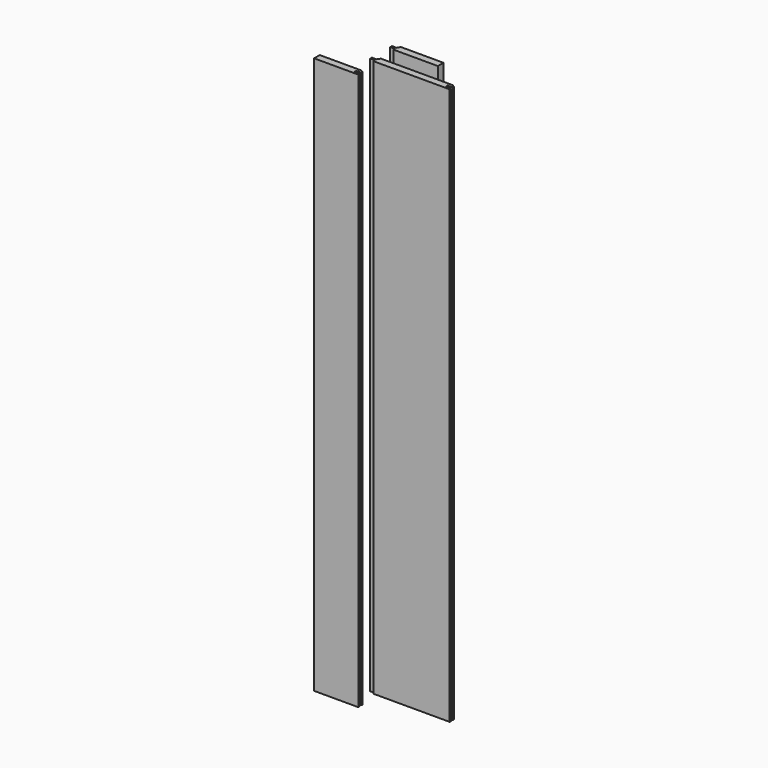
from build123d import *

# Parameters (mm, degrees)
F1_DEPTH = 630
F2_SIZE2 = 2.3835071852
F2_SIZE  = 2
F3_SIZE2 = 2.8562960135
F3_SIZE  = 2
F4_DEPTH = 630
F5_DEPTH = 630
F6_SIZE2 = 2.3835071852
F6_SIZE  = 2
F7_SIZE2 = 2.8562960135
F7_SIZE  = 2


with BuildPart() as f1:
    # F0 (on Top) → F1 (new body)
    with BuildSketch(Plane.XY):
        Polygon((45.75, 0.6), (45.75, 4), (-40.25, 4), (-40.25, 0.5), (-45.75, 0.5), (-45.75, -2), (-40.25, -2), (-40.25, -4), (45.75, -4), (45.75, -2), (39.75, -2), (39.75, 0.6), align=None)
    extrude(amount=-F1_DEPTH)

    # F2
    f2_edges = [f1.edges().sort_by_distance(p)[0] for p in [
        (-40.25, 4, -315),
    ]]
    f2_side = f1.faces().sort_by_distance((2.75, 4, -315))[0]
    chamfer(f2_edges, length=F2_SIZE, length2=F2_SIZE2, reference=f2_side)

    # F3
    f3_edges = [f1.edges().sort_by_distance(p)[0] for p in [
        (45.75, 4, -315),
    ]]
    f3_side = f1.faces().sort_by_distance((45.75, 2.3, -315))[0]
    chamfer(f3_edges, length=F3_SIZE, length2=F3_SIZE2, reference=f3_side)


with BuildPart() as f4:
    # F0 (on Top) → F4 (new body)
    with BuildSketch(Plane.XY):
        Polygon((9.7738518756, 28.9047427452), (9.7738518756, 32.3047427452), (-40.2261481244, 32.3047427452), (-40.2261481244, 28.8047427452), (-45.7261481244, 28.8047427452), (-45.7261481244, 26.3047427452), (-40.2261481244, 26.3047427452), (-40.2261481244, 24.3047427452), (9.7738518756, 24.3047427452), (9.7738518756, 26.3047427452), align=None)
    extrude(amount=-F4_DEPTH)

    # F6
    f6_edges = [f4.edges().sort_by_distance(p)[0] for p in [
        (-40.226148, 32.304743, -315),
    ]]
    f6_side = f4.faces().sort_by_distance((-15.226148, 32.304743, -315))[0]
    chamfer(f6_edges, length=F6_SIZE, length2=F6_SIZE2, reference=f6_side)


with BuildPart() as f5:
    # F0 (on Top) → F5 (new body)
    with BuildSketch(Plane.XY):
        Polygon((-34.8161143508, -27.8352580988), (-34.8161143508, -24.4352580988), (-79.3161143508, -24.4352580988), (-84.8161143508, -24.4352580988), (-84.8161143508, -30.4352580988), (-84.8161143508, -32.4352580988), (-45.8161143508, -32.4352580988), (-40.3161143508, -32.4352580988), (-34.8161143508, -32.4352580988), (-34.8161143508, -30.4352580988), (-40.8161143508, -30.4352580988), (-40.8161143508, -27.8352580988), align=None)
    extrude(amount=-F5_DEPTH)

    # F7
    f7_edges = [f5.edges().sort_by_distance(p)[0] for p in [
        (-34.816114, -24.435258, -315),
    ]]
    f7_side = f5.faces().sort_by_distance((-34.816114, -26.135258, -315))[0]
    chamfer(f7_edges, length=F7_SIZE, length2=F7_SIZE2, reference=f7_side)


solid = Compound([f1.part, f4.part, f5.part])
